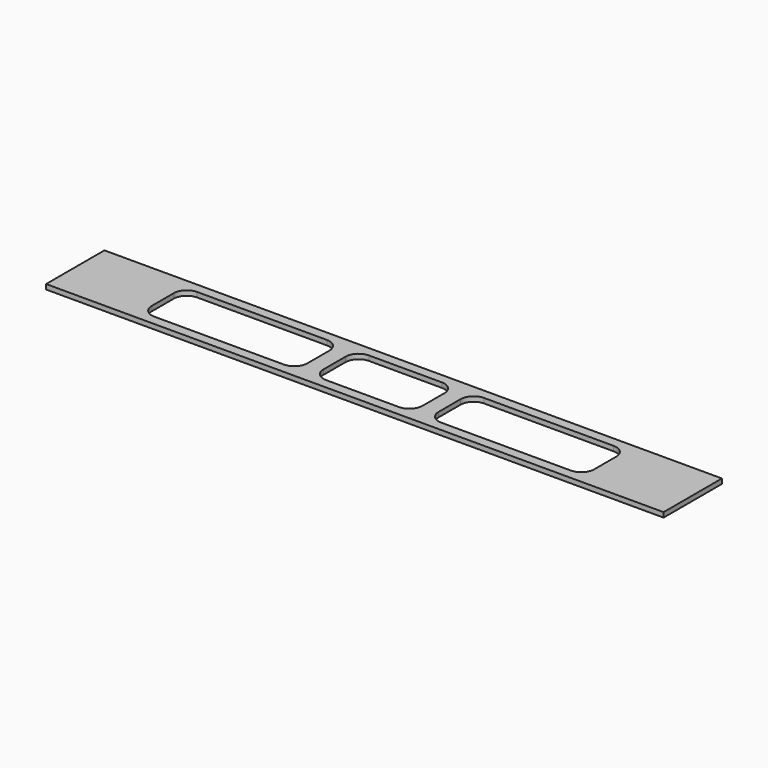
from build123d import *

# Parameters (mm, degrees)
F0_W     = 177.8
F0_H     = 19.05
F1_DEPTH = 19.05


with BuildPart() as f1:
    # F0 (on Top) → F1 (new body)
    with BuildSketch(Plane.XY):
        Polygon((-1137.722635, 126.528041), (-1271.072635, 126.528041), (-1271.072635, -159.221959), (-1137.722635, -159.221959), (-1137.722635, -140.171959), (-959.922635, -140.171959), (-959.922635, -159.221959), (-928.172635, -159.221959), (-318.572635, -159.221959), (837.127365, -159.221959), (837.127365, -140.171959), (1014.927365, -140.171959), (1014.927365, -159.221959), (1148.277365, -159.221959), (1148.277365, 126.528041), (1014.927365, 126.528041), (1014.927365, 107.478041), (837.127365, 107.478041), (837.127365, 126.528041), (-318.572635, 126.528041), (-928.172635, 126.528041), (-959.922635, 126.528041), (-959.922635, 107.478041), (-1137.722635, 107.478041), align=None)
        with BuildLine():
            Line((-928.172635, -70.321959), (-928.172635, 37.628041))
            ThreePointArc((-928.172635, 37.628041), (-913.29366, 73.549065), (-877.372635, 88.428041))
            Line((-877.372635, 88.428041), (-369.372635, 88.428041))
            ThreePointArc((-369.372635, 88.428041), (-333.451611, 73.549065), (-318.572635, 37.628041))
            Line((-318.572635, 37.628041), (-318.572635, -70.321959))
            ThreePointArc((-318.572635, -70.321959), (-333.451611, -106.242984), (-369.372635, -121.121959))
            Line((-369.372635, -121.121959), (-877.372635, -121.121959))
            ThreePointArc((-877.372635, -121.121959), (-913.29366, -106.242984), (-928.172635, -70.321959))
        make_face(mode=Mode.SUBTRACT)
        with BuildLine():
            Line((81.477365, -121.121959), (-204.272635, -121.121959))
            ThreePointArc((-204.272635, -121.121959), (-240.19366, -106.242984), (-255.072635, -70.321959))
            Line((-255.072635, -70.321959), (-255.072635, 37.628041))
            ThreePointArc((-255.072635, 37.628041), (-240.19366, 73.549065), (-204.272635, 88.428041))
            Line((-204.272635, 88.428041), (81.477365, 88.428041))
            ThreePointArc((81.477365, 88.428041), (117.398389, 73.549065), (132.277365, 37.628041))
            Line((132.277365, 37.628041), (132.277365, -70.321959))
            ThreePointArc((132.277365, -70.321959), (117.398389, -106.242984), (81.477365, -121.121959))
        make_face(mode=Mode.SUBTRACT)
        with BuildLine():
            Line((754.577365, -121.121959), (246.577365, -121.121959))
            ThreePointArc((246.577365, -121.121959), (210.65634, -106.242984), (195.777365, -70.321959))
            Line((195.777365, -70.321959), (195.777365, 37.628041))
            ThreePointArc((195.777365, 37.628041), (210.65634, 73.549065), (246.577365, 88.428041))
            Line((246.577365, 88.428041), (754.577365, 88.428041))
            ThreePointArc((754.577365, 88.428041), (790.498389, 73.549065), (805.377365, 37.628041))
            Line((805.377365, 37.628041), (805.377365, -70.321959))
            ThreePointArc((805.377365, -70.321959), (790.498389, -106.242984), (754.577365, -121.121959))
        make_face(mode=Mode.SUBTRACT)
        with Locations((-1048.822635, 117.003041)):
            Rectangle(F0_W, F0_H)
        with Locations((-1048.822635, -149.696959)):
            Rectangle(F0_W, F0_H)
        with Locations((926.027365, 117.003041)):
            Rectangle(F0_W, F0_H)
        with Locations((926.027365, -149.696959)):
            Rectangle(F0_W, F0_H)
    extrude(amount=F1_DEPTH)


solid = f1.part
